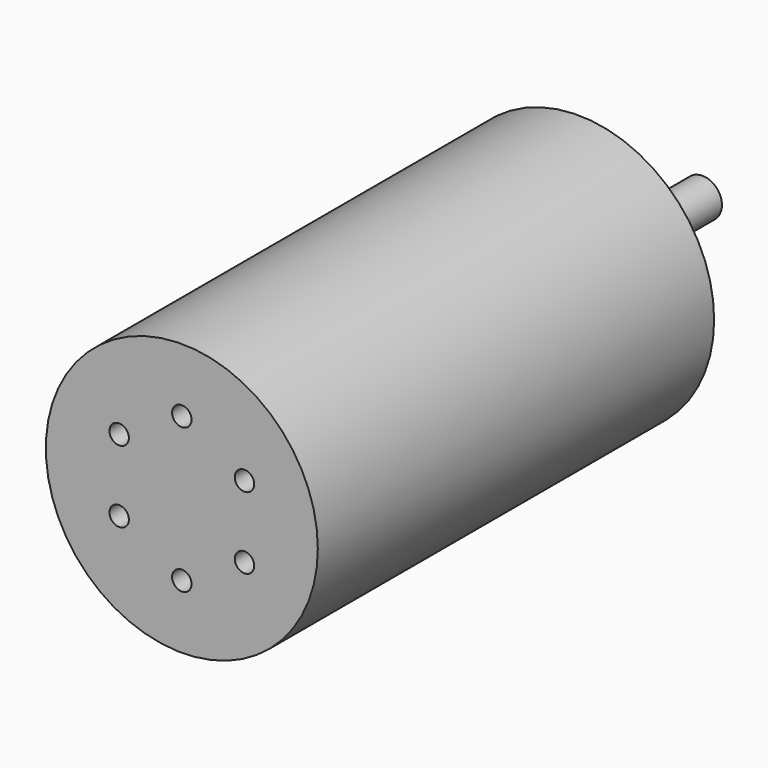
from build123d import *

# Parameters (mm, degrees)
F0_R     = 4
F1_DEPTH = 134
F0_R_2   = 28
F0_R_3   = 2
F2_DEPTH = 102


with BuildPart() as f1:
    # F0 (on Front) → F1 (new body)
    with BuildSketch(Plane.XZ):
        Circle(F0_R)
    extrude(amount=-F1_DEPTH)

    # F0 (on Front) → F2 (join)
    with BuildSketch(Plane.XZ):
        Circle(F0_R_2)
        with Locations((-12.9, -7.4)):
            Circle(F0_R_3, mode=Mode.SUBTRACT)
        with Locations((0, -14.9)):
            Circle(F0_R_3, mode=Mode.SUBTRACT)
        with Locations((12.9, -7.4)):
            Circle(F0_R_3, mode=Mode.SUBTRACT)
        with Locations((-12.9, 7.4)):
            Circle(F0_R_3, mode=Mode.SUBTRACT)
        Circle(F0_R, mode=Mode.SUBTRACT)
        with Locations((12.9, 7.4)):
            Circle(F0_R_3, mode=Mode.SUBTRACT)
        with Locations((0, 14.9)):
            Circle(F0_R_3, mode=Mode.SUBTRACT)
    extrude(amount=-F2_DEPTH)


solid = f1.part
